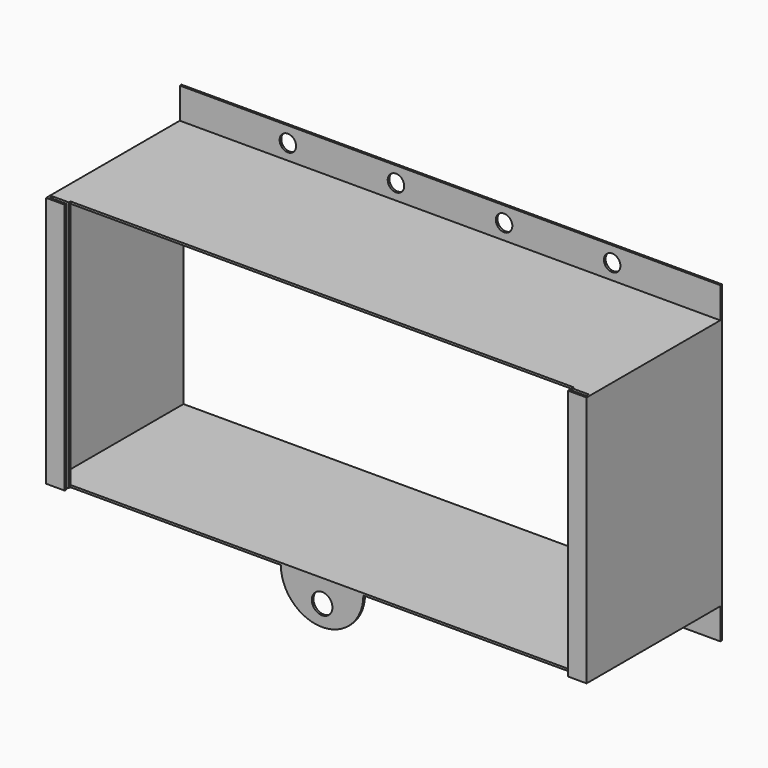
from build123d import *

# Parameters (mm, degrees)
F1_DEPTH = 122
F2_W     = 260
F2_H     = 1
F3_DEPTH = 78.5
F4_W     = 3
F4_H     = 1.5
F5_DEPTH = 1
F6_W     = 262
F6_H     = 15
F6_R     = 4
F7_DEPTH = 1
F8_R     = 5
F9_DEPTH = 1


with BuildPart() as f1:
    # F0 (on Top) → F1 (new body)
    with BuildSketch(Plane.XY):
        Polygon((-130, 0), (-131, 0), (-131, -82), (-122, -82), (-122, -81), (-130, -81), (-130, -79.5), (-122, -79.5), (-122, -78.5), (-130, -78.5), align=None)
    extrude(amount=F1_DEPTH)



with BuildPart() as f1b:
    # F0 (on Top) → F1, piece 2 (new body)
    with BuildSketch(Plane.XY):
        Polygon((131, -82), (131, 0), (130, 0), (130, -78.5), (122, -78.5), (122, -79.5), (130, -79.5), (130, -81), (122, -81), (122, -82), align=None)
    extrude(amount=F1_DEPTH)


with BuildPart() as f1_1:
    add(f1.part)

    add(f1b.part)  # F3 merges F1b
    # F2 (on Front) → F3 (join)
    with BuildSketch(Plane.XZ):
        with Locations((0, 0.5)):
            Rectangle(F2_W, F2_H)
        with Locations((0, 121.5)):
            Rectangle(F2_W, F2_H)
    extrude(amount=F3_DEPTH)

    # F4 (on face) → F5 (join)
    with BuildSketch(Plane(origin=(0, 0, 0), x_dir=(1, 0, 0), z_dir=(0, 0, -1))):
        with Locations((-128.5, 80.25)):
            Rectangle(F4_W, F4_H)
        with Locations((128.5, 80.25)):
            Rectangle(F4_W, F4_H)
    extrude(amount=-F5_DEPTH)

    # F6 (on Front) → F7 (join)
    with BuildSketch(Plane.XZ):
        with Locations((0, -7.5)):
            Rectangle(F6_W, F6_H)
        with Locations((-78.6, -7.5)):
            Circle(F6_R, mode=Mode.SUBTRACT)
        with Locations((-26.2, -7.5)):
            Circle(F6_R, mode=Mode.SUBTRACT)
        with Locations((26.2, -7.5)):
            Circle(F6_R, mode=Mode.SUBTRACT)
        with Locations((78.6, -7.5)):
            Circle(F6_R, mode=Mode.SUBTRACT)
        with Locations((0, 129.5)):
            Rectangle(F6_W, F6_H)
        with Locations((-78.6, 129.5)):
            Circle(F6_R, mode=Mode.SUBTRACT)
        with Locations((-26.2, 129.5)):
            Circle(F6_R, mode=Mode.SUBTRACT)
        with Locations((26.2, 129.5)):
            Circle(F6_R, mode=Mode.SUBTRACT)
        with Locations((78.6, 129.5)):
            Circle(F6_R, mode=Mode.SUBTRACT)
    extrude(amount=F7_DEPTH)

    # F8 (on face) → F9 (join)
    with BuildSketch(Plane.XZ.offset(78.5)):
        with BuildLine():
            Line((20, 0), (-20, 0))
            ThreePointArc((-20, 0), (0, -20), (20, 0))
        make_face()
        with Locations((0, -10)):
            Circle(F8_R, mode=Mode.SUBTRACT)
    extrude(amount=-F9_DEPTH)


solid = f1_1.part
